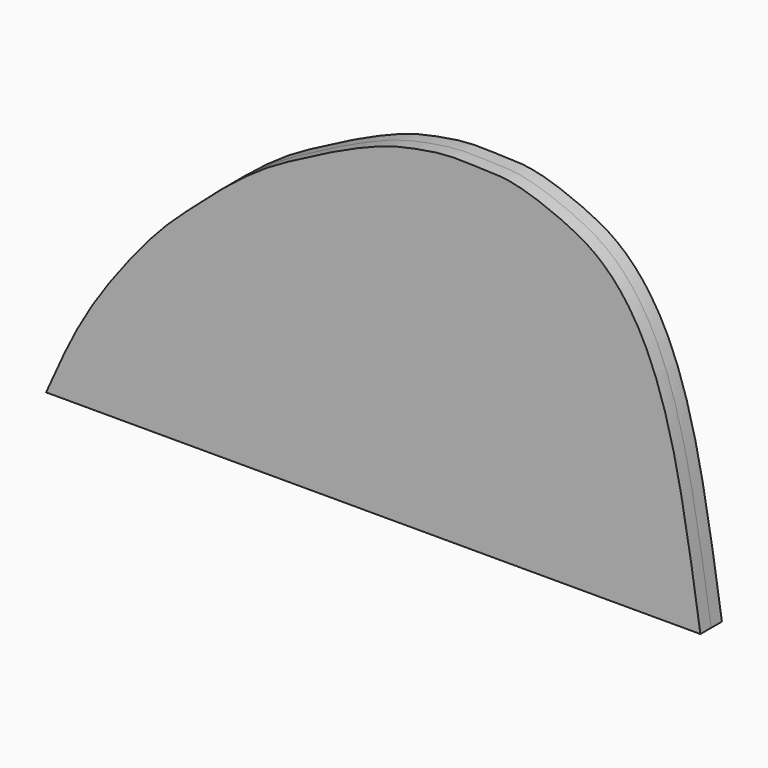
from build123d import *

# Parameters (mm, degrees)
F1_DEPTH = 3


with BuildPart() as f1:
    # F0 (on Front) → F1 (new body, symmetric)
    with BuildSketch(Plane.XZ):
        with BuildLine():
            add(Edge.make_bspline(
                [(0, 0), (2.1168791871, 4.782034869), (6.1411989287, 13.8729822625), (12.7383088601, 24.4709632939), (19.287757748, 33.0508100562), (25.6600134473, 40.6195687295), (32.2283476482, 46.561571677), (38.6036313273, 52.246880616), (44.986692323, 57.3511103714), (51.393703789, 61.5889406312), (57.8856579841, 64.8365924313), (64.2072449213, 68.2373303987), (70.6157062233, 71.092452752), (76.9344530267, 73.5651620211), (83.3842595494, 74.8651809709), (89.7121708704, 75.8833993338), (96.3217761382, 75.5115652416), (102.484696476, 75.5389001136), (108.8472857523, 73.8319698698), (115.1567094139, 71.314111466), (121.6996952813, 68.0983581935), (128.2108020537, 62.2168869936), (134.7965074401, 51.9056284523), (141.0406863568, 32.7703457465), (144.2038064677, 11.8655853419), (145.9992, 0)],
                knots=[0, 0, 0, 0, 0.0554595728, 0.1054321169, 0.1518672978, 0.196304621, 0.2384249524, 0.2798045424, 0.3203288713, 0.3595255347, 0.3976622947, 0.4356101091, 0.4731613249, 0.5100257984, 0.5462767827, 0.5821357927, 0.6184730349, 0.6536069479, 0.6897181664, 0.7266489859, 0.7646149462, 0.8059043108, 0.8544279498, 0.9173730026, 1, 1, 1, 1], degree=3))
            Line((0, 0), (145.9992, 0))
        make_face()
    extrude(amount=F1_DEPTH, both=True)


solid = f1.part
